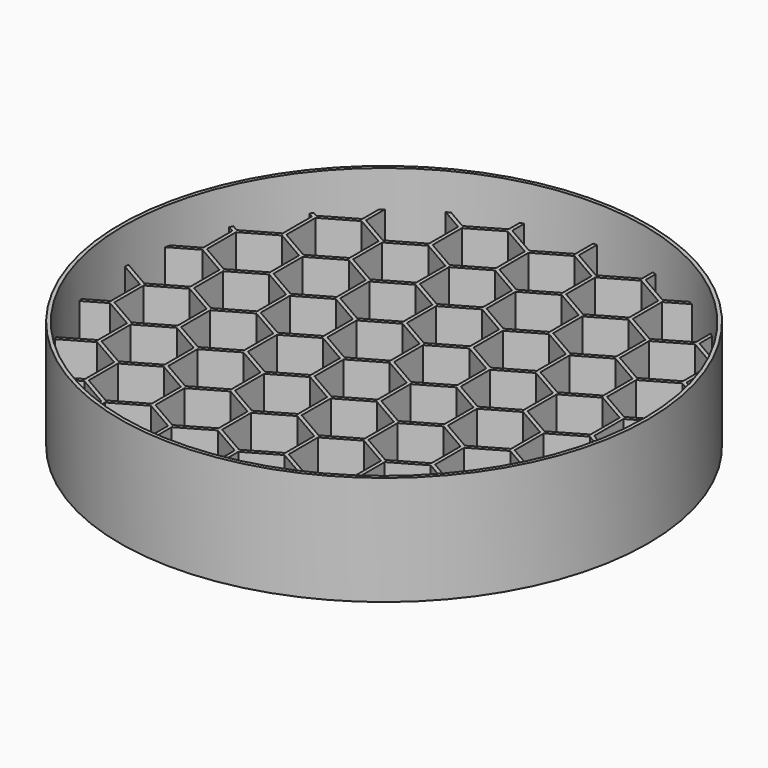
from build123d import *

# Parameters (mm, degrees)
PAD_DEPTH         = 20
ARRAY_X_COUNT     = 9
ARRAY_X_PITCH     = 18.320508
ARRAY_Y_COUNT     = 2
ARRAY_Y_PITCH     = 18.320508
ARRAY004_Y_COUNT  = 6
ARRAY004_Y_PITCH  = 31.732051
CYLINDER001_R     = 71.5
CYLINDER001_DEPTH = 20
CYLINDER002_R     = 71.5
CYLINDER002_DEPTH = 30
CYLINDER_R        = 72.5
CYLINDER_DEPTH    = 30


with BuildPart() as holes:
    # Sketch → Pad (new body)
    with BuildSketch(Plane.XY):
        Polygon((-81.160254, -67.5), (-81.160254, -77.5), (-72.5, -82.5), (-63.839746, -77.5), (-63.839746, -67.5), (-72.5, -62.5), align=None)
    extrude(amount=PAD_DEPTH)

    # Array X: holes ×9


with BuildPart() as holes_1:
    add(holes.part)
    with Locations(*[(i * ARRAY_X_PITCH, 0, 0) for i in range(1, ARRAY_X_COUNT)]):
        add(holes.part)

    # Array Y: holes ×2


with BuildPart() as holes_2:
    add(holes_1.part)
    with Locations(*[Vector(0.5, 0.866025, 0) * (i * ARRAY_Y_PITCH) for i in range(1, ARRAY_Y_COUNT)]):
        add(holes_1.part)

    # Array004 Y: holes ×6


with BuildPart() as holes_3:
    add(holes_2.part)
    with Locations(*[(0, i * ARRAY004_Y_PITCH, 0) for i in range(1, ARRAY004_Y_COUNT)]):
        add(holes_2.part)


with BuildPart() as cut:
    # Cylinder001 → Cylinder001 (new body)
    with BuildSketch(Plane.XY):
        Circle(CYLINDER001_R)
    extrude(amount=CYLINDER001_DEPTH)

    # Cut: cut holes
    add(holes_3.part, mode=Mode.SUBTRACT)


with BuildPart() as cylinder002:
    # Cylinder002 → Cylinder002 (new body)
    with BuildSketch(Plane.XY):
        Circle(CYLINDER002_R)
    extrude(amount=CYLINDER002_DEPTH)


with BuildPart() as spacer:
    # Cylinder → Cylinder (new body)
    with BuildSketch(Plane.XY):
        Circle(CYLINDER_R)
    extrude(amount=CYLINDER_DEPTH)

    # Cut001: cut Cylinder002
    add(cylinder002.part, mode=Mode.SUBTRACT)


solid = Compound([cut.part, spacer.part])
